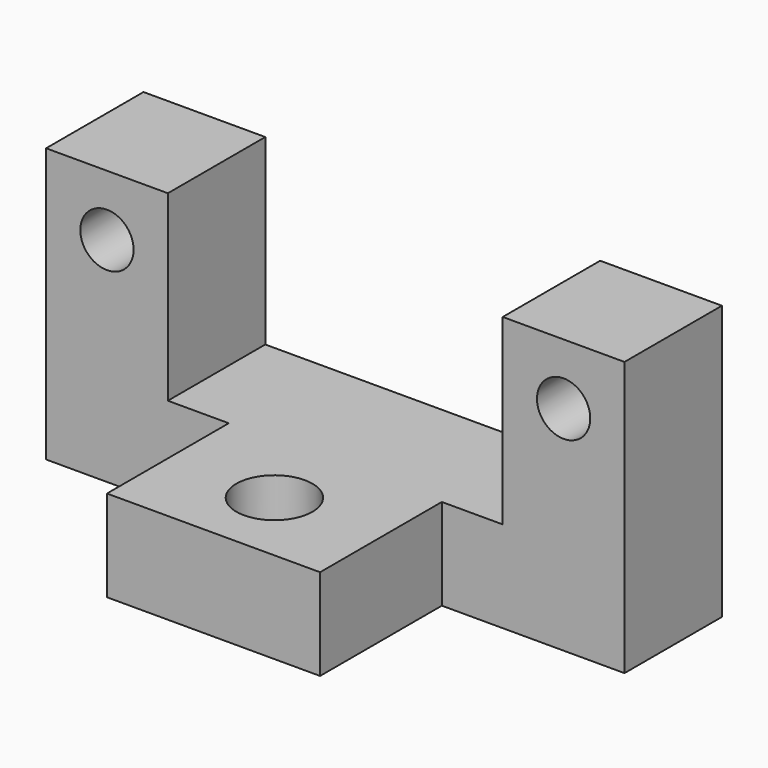
from build123d import *

# Parameters (mm, degrees)
F0_W     = 44.45
F0_H     = 31.75
F1_DEPTH = 19.05
F2_R     = 7.9375
F3_DEPTH = 19.051
F4_W     = 25.4
F4_H     = 25.4
F5_DEPTH = 38.1
F6_R     = 5.55625
F7_DEPTH = 25.401
F8_R     = 5.55625
F9_DEPTH = 25.401


with BuildPart() as f1:
    # F0 (on Top) → F1 (new body)
    with BuildSketch(Plane.XY):
        Polygon((68.285176, -9.157275), (-52.364824, -9.157275), (-52.364824, -34.557275), (-14.264824, -34.557275), (30.185176, -34.557275), (68.285176, -34.557275), align=None)
        with Locations((7.960176, -50.432275)):
            Rectangle(F0_W, F0_H)
    extrude(amount=F1_DEPTH)

    # F2 (on face) → F3 (cut, through all)
    with BuildSketch(Plane.XY.offset(19.05)):
        with Locations((7.960176, -50.432275)):
            Circle(F2_R)
    extrude(amount=-F3_DEPTH, mode=Mode.SUBTRACT)

    # F4 (on face) → F5 (join)
    with BuildSketch(Plane.XY.offset(19.05)):
        with Locations((-39.664824, -21.857275)):
            Rectangle(F4_W, F4_H)
        with Locations((55.585176, -21.857275)):
            Rectangle(F4_W, F4_H)
    extrude(amount=F5_DEPTH)

    # F6 (on face) → F7 (cut, through all)
    with BuildSketch(Plane.XZ.offset(34.557275)):
        with Locations((-39.664824, 44.45)):
            Circle(F6_R)
    extrude(amount=-F7_DEPTH, mode=Mode.SUBTRACT)

    # F8 (on face) → F9 (cut, through all)
    with BuildSketch(Plane.XZ.offset(34.557275)):
        with Locations((55.585176, 44.45)):
            Circle(F8_R)
    extrude(amount=-F9_DEPTH, mode=Mode.SUBTRACT)


solid = f1.part
